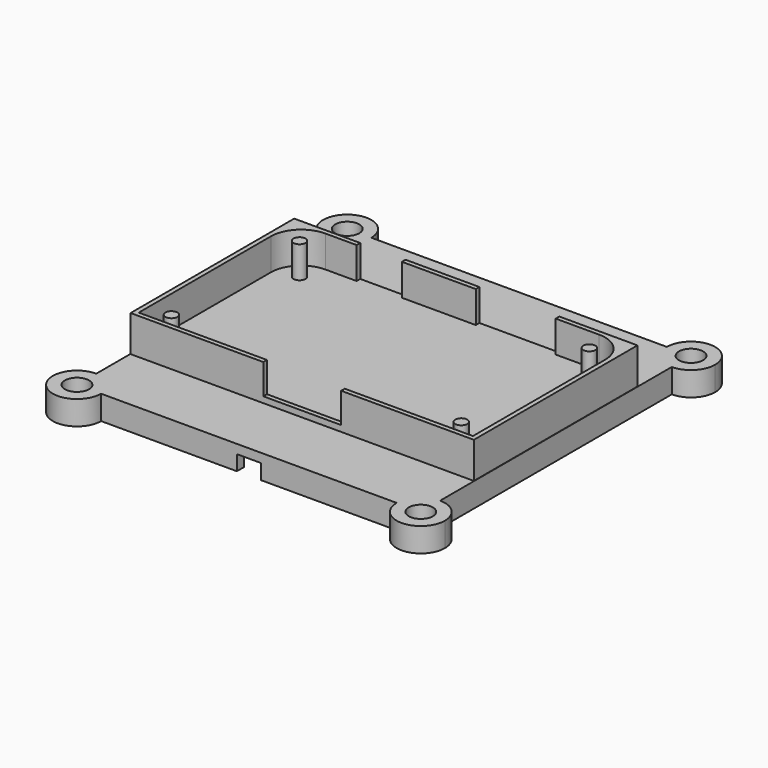
from build123d import *

# Parameters (mm, degrees)
F2_DEPTH  = 6
F3_T      = -0.75
F4_R      = 1
F5_DEPTH  = 6
F6_W      = 13.25
F6_H      = 5.25
F6_W_2    = 7.5
F7_DEPTH  = 0.75
F9_DEPTH  = 4
F10_W     = 12.9
F10_H     = 5
F11_DEPTH = 1
F12_R     = 2
F13_DEPTH = 4
F14_W     = 53
F14_H     = 53
F15_DEPTH = 3
F16_R     = 1
F17_R     = 5
F18_W     = 4
F18_H     = 2.5
F19_DEPTH = 1.5


with BuildPart() as f2:
    # F1 (on Top) → F2 (new body)
    with BuildSketch(Plane.XY):
        Polygon((-28.45, 16.95), (-28.45, -16.95), (28.45, -16.95), (28.45, 16.95), (16.2, 16.95), (1.45, 16.95), (-9.05, 16.95), (-18.3, 16.95), align=None)
    extrude(amount=F2_DEPTH)

    # F3
    f3_openings = [f2.faces().sort_by_distance(p)[0] for p in [
        (0, 0, 6),
    ]]
    offset(amount=F3_T, openings=f3_openings)

    # F4 (on Top) → F5 (join)
    with BuildSketch(Plane.XY):
        with Locations((-24.025, 12.525)):
            Circle(F4_R)
        with Locations((24.025, 12.525)):
            Circle(F4_R)
        with Locations((-24.025, -14.025)):
            Circle(F4_R)
        with Locations((24.025, -14.025)):
            Circle(F4_R)
    extrude(amount=F5_DEPTH)

    # F6 (on face) → F7 (cut)
    with BuildSketch(Plane(origin=(0, 16.95, 0), x_dir=(-1, 0, 0), z_dir=(0, 1, 0))):
        with Locations((-8.875, 3.375)):
            Rectangle(F6_W, F6_H)
        with Locations((13.75, 3.375)):
            Rectangle(F6_W_2, F6_H)
    extrude(amount=-F7_DEPTH, mode=Mode.SUBTRACT)

    # F8 (on face) → F9 (join)
    with BuildSketch(Plane(origin=(0, 0, 0), x_dir=(1, 0, 0), z_dir=(0, 0, -1))):
        with BuildLine():
            ThreePointArc((-28.5, 24), (-25.6715728753, 25.1715728753), (-24.5, 28))
            Line((-24.5, 28), (-28.5, 28))
            Line((-28.5, 28), (-28.5, 24))
        make_face()
        with BuildLine():
            Line((-28.5, 28), (-24.5, 28))
            ThreePointArc((-24.5, 28), (-31.3284271247, 30.8284271247), (-28.5, 24))
            Line((-28.5, 24), (-28.5, 28))
        make_face()
        with BuildLine():
            Line((24.5, 28), (-24.5, 28))
            ThreePointArc((-24.5, 28), (-25.6715728753, 25.1715728753), (-28.5, 24))
            Line((-28.5, 24), (-28.5, -24))
            ThreePointArc((-28.5, -24), (-25.6715728753, -25.1715728753), (-24.5, -28))
            Line((-24.5, -28), (24.5, -28))
            ThreePointArc((24.5, -28), (25.6715728753, -25.1715728753), (28.5, -24))
            Line((28.5, -24), (28.5, 24))
            ThreePointArc((28.5, 24), (25.6715728753, 25.1715728753), (24.5, 28))
        make_face()
        with BuildLine():
            ThreePointArc((32.5, 28), (28.5, 32), (24.5, 28))
            Line((24.5, 28), (28.5, 28))
            Line((28.5, 28), (28.5, 24))
            ThreePointArc((28.5, 24), (31.3284271247, 25.1715728753), (32.5, 28))
        make_face()
        with BuildLine():
            Line((28.5, 28), (24.5, 28))
            ThreePointArc((24.5, 28), (25.6715728753, 25.1715728753), (28.5, 24))
            Line((28.5, 24), (28.5, 28))
        make_face()
        with BuildLine():
            ThreePointArc((-24.5, -28), (-25.6715728753, -25.1715728753), (-28.5, -24))
            Line((-28.5, -24), (-28.5, -28))
            Line((-28.5, -28), (-24.5, -28))
        make_face()
        with BuildLine():
            Line((-28.5, -28), (-28.5, -24))
            ThreePointArc((-28.5, -24), (-31.3284271247, -30.8284271247), (-24.5, -28))
            Line((-24.5, -28), (-28.5, -28))
        make_face()
        with BuildLine():
            ThreePointArc((32.5, -28), (31.3284271247, -25.1715728753), (28.5, -24))
            Line((28.5, -24), (28.5, -28))
            Line((28.5, -28), (24.5, -28))
            ThreePointArc((24.5, -28), (28.5, -32), (32.5, -28))
        make_face()
        with BuildLine():
            Line((28.5, -28), (28.5, -24))
            ThreePointArc((28.5, -24), (25.6715728753, -25.1715728753), (24.5, -28))
            Line((24.5, -28), (28.5, -28))
        make_face()
    extrude(amount=F9_DEPTH)

    # F10 (on face) → F11 (cut)
    with BuildSketch(Plane.XZ.offset(16.95)):
        with Locations((0, 3.5)):
            Rectangle(F10_W, F10_H)
    extrude(amount=-F11_DEPTH, mode=Mode.SUBTRACT)

    # F12 (on face) → F13 (cut, through all)
    with BuildSketch(Plane(origin=(0, 0, -4), x_dir=(1, 0, 0), z_dir=(0, 0, -1))):
        with Locations((-28.5, 28)):
            Circle(F12_R)
        with Locations((28.5, 28)):
            Circle(F12_R)
        with Locations((28.5, -28)):
            Circle(F12_R)
        with Locations((-28.5, -28)):
            Circle(F12_R)
    extrude(amount=-F13_DEPTH, mode=Mode.SUBTRACT)

    # F14 (on face) → F15 (cut)
    with BuildSketch(Plane(origin=(0, 0, -4), x_dir=(1, 0, 0), z_dir=(0, 0, -1))):
        Rectangle(F14_W, F14_H)
    extrude(amount=-F15_DEPTH, mode=Mode.SUBTRACT)

    # F16
    f16_edges = [f2.edges().sort_by_distance(p)[0] for p in [
        (-26.5, -26.5, -2.5),
        (26.5, -26.5, -2.5),
        (26.5, 26.5, -2.5),
        (-26.5, 26.5, -2.5),
    ]]
    fillet(f16_edges, radius=F16_R)

    # F17
    f17_edges = [f2.edges().sort_by_distance(p)[0] for p in [
        (-27.7, 16.2, 3.375),
        (27.7, 16.2, 3.375),
    ]]
    fillet(f17_edges, radius=F17_R)

    # F18 (on face) → F19 (cut, through all)
    with BuildSketch(Plane.XZ.offset(28)):
        with Locations((0, -2.75)):
            Rectangle(F18_W, F18_H)
    extrude(amount=-F19_DEPTH, mode=Mode.SUBTRACT)


solid = f2.part
